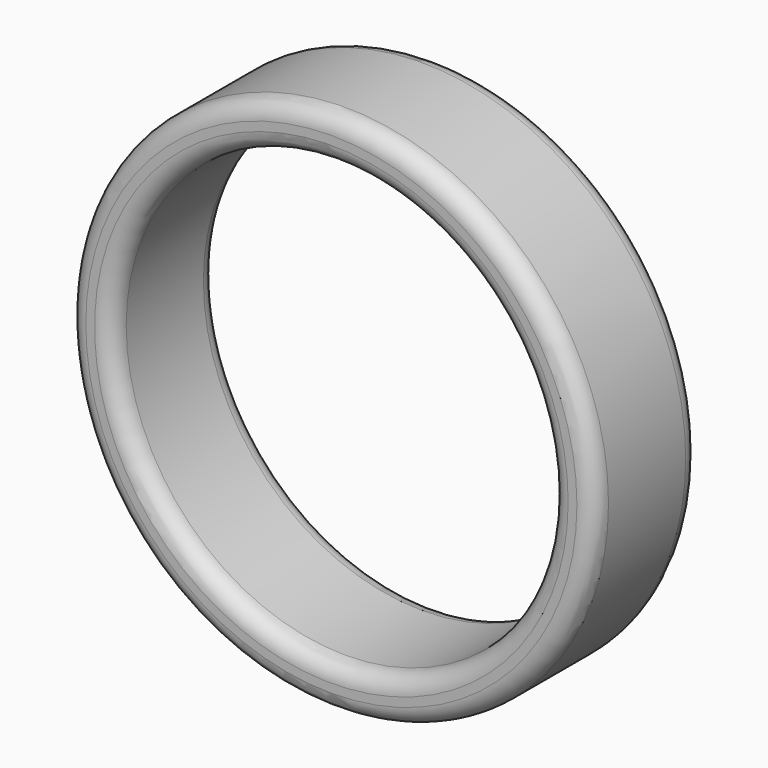
from build123d import *

# Parameters (mm, degrees)
F0_R     = 38.1
F1_DEPTH = 19.05
F2_R     = 31.75
F3_DEPTH = 19.05
F4_R     = 2.54
F5_R     = 2.54


with BuildPart() as f1:
    # F0 (on Front) → F1 (new body)
    with BuildSketch(Plane.XZ):
        Circle(F0_R)
    extrude(amount=F1_DEPTH)

    # F2 (on face) → F3 (cut, through all)
    with BuildSketch(Plane.XZ.offset(19.05)):
        Circle(F2_R)
    extrude(amount=-F3_DEPTH, mode=Mode.SUBTRACT)

    # F4
    f4_edges = [f1.edges().sort_by_distance(p)[0] for p in [
        (-38.1, -19.05, 0),
    ]]
    fillet(f4_edges, radius=F4_R)

    # F5
    f5_edges = [f1.edges().sort_by_distance(p)[0] for p in [
        (-31.75, -19.05, 0),
        (-38.1, 0, 0),
        (-31.75, 0, 0),
    ]]
    fillet(f5_edges, radius=F5_R)


solid = f1.part
